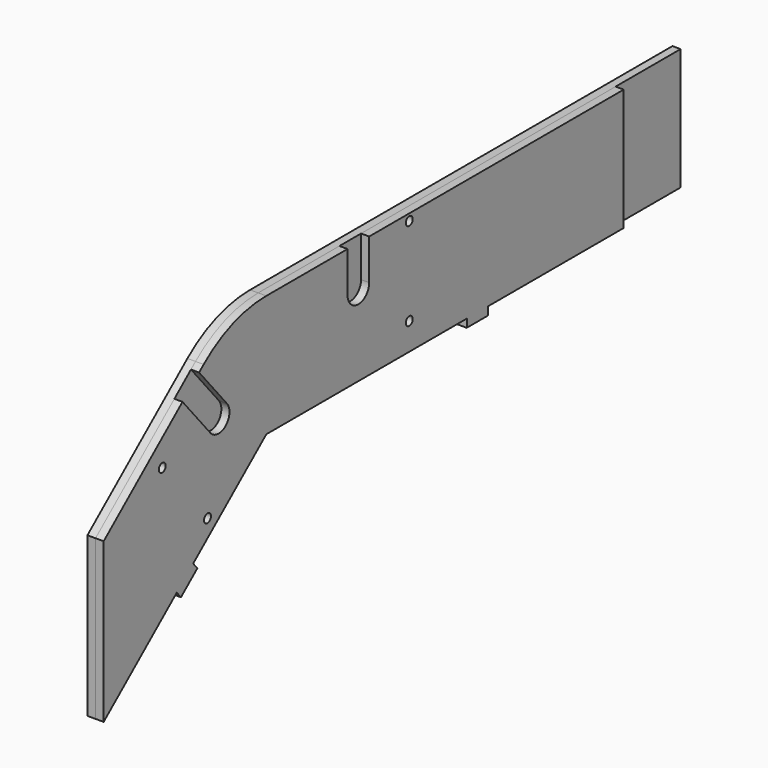
from build123d import *

# Parameters (mm, degrees)
F1_DEPTH  = 3
F2_W      = 9.9
F2_H      = 3
F3_DEPTH  = 3
F5_DEPTH  = 3
F7_W      = 30
F7_H      = 45
F8_DEPTH  = 3
F10_D     = 3.2
F10_DEPTH = 4
F10_TIP   = 0.9613769904
F12_DEPTH = 3
F14_D     = 3.2
F14_DEPTH = 4
F14_TIP   = 0.9613769904
F15_DEPTH = 3


with BuildPart() as f1:
    # F0 (on Right) → F1 (new body)
    with BuildSketch(Plane.YZ):
        with BuildLine():
            Line((-172.5723554257, -62.9931857493), (-97.5, 0))
            Line((-97.5, 0), (97.5, 0))
            Line((97.5, 0), (97.5, 45))
            Line((97.5, 45), (-97.5, 45))
            ThreePointArc((-97.5, 45), (-112.8909064497, 42.2861679354), (-126.4254424359, 34.4719999404))
            Line((-126.4254424359, 34.4719999404), (-201.4977978616, -28.5211858089))
            Line((-201.4977978616, -28.5211858089), (-172.5723554257, -62.9931857493))
        make_face()
    extrude(amount=F1_DEPTH)

    # F2 (on face) → F3 (join, through all)
    with BuildSketch(Plane.YZ.offset(3)):
        with Locations((0, -1.5)):
            Rectangle(F2_W, F2_H)
        Polygon((-129.3158948903, -30.612927536), (-131.2442577194, -28.3147942067), (-138.8280977063, -34.6783915426), (-136.8997348772, -36.9765248719), align=None)
    extrude(amount=-F3_DEPTH)

    # F4 (on face) → F5 (cut, through all)
    with BuildSketch(Plane.YZ.offset(3)):
        Polygon((-201.4977978616, -28.5211858089), (-172.5723554257, -62.9931857493), (-172.5723554257, -4.2498577293), align=None)
    extrude(amount=-F5_DEPTH, mode=Mode.SUBTRACT)


with BuildPart() as f6_1:
    # F6: instance of F1
    add(f1.part.mirror(Plane.YZ))


with BuildPart() as f1_1:
    add(f1.part)

    # F7 (on face) → F8 (cut, through all)
    with BuildSketch(Plane.YZ.offset(3)):
        with Locations((82.5, 22.5)):
            Rectangle(F7_W, F7_H)
    extrude(amount=-F8_DEPTH, mode=Mode.SUBTRACT)

    # F10
    with Locations(Plane.YZ.offset(3)):
        with Locations((-124.6455621877, -16.2507947732), (-145.5361595026, 8.6456496282)):
            Hole(F10_D / 2, depth=F10_DEPTH)
            with Locations((0, 0, -(F10_DEPTH + F10_TIP / 2))):  # 118° drill point
                Cone(0, F10_D / 2, F10_TIP, mode=Mode.SUBTRACT)

    # F11 (on face) → F12 (cut, through all)
    with BuildSketch(Plane.YZ.offset(3)):
        with BuildLine():
            Line((-128.5247999463, 32.7104298276), (-136.1852443775, 26.2825537308))
            Line((-136.1852443775, 26.2825537308), (-123.3294921838, 10.9616648684))
            ThreePointArc((-123.3294921838, 10.9616648684), (-116.2853319197, 10.3453807012), (-115.6690477526, 17.3895409653))
            Line((-115.6690477526, 17.3895409653), (-128.5247999463, 32.7104298276))
        make_face()
    extrude(amount=-F12_DEPTH, mode=Mode.SUBTRACT)

    # F14
    with Locations(Plane.YZ.offset(3)):
        with Locations((-31.5, 42.5), (-31.5, 10)):
            Hole(F14_D / 2, depth=F14_DEPTH)
            with Locations((0, 0, -(F14_DEPTH + F14_TIP / 2))):  # 118° drill point
                Cone(0, F14_D / 2, F14_TIP, mode=Mode.SUBTRACT)

    # F13 (on face) → F15 (cut, through all)
    with BuildSketch(Plane.YZ.offset(3)):
        with BuildLine():
            Line((-50, 45), (-60, 45))
            Line((-60, 45), (-60, 30))
            ThreePointArc((-60, 30), (-55, 25), (-50, 30))
            Line((-50, 30), (-50, 45))
        make_face()
    extrude(amount=-F15_DEPTH, mode=Mode.SUBTRACT)


solid = Compound([f6_1.part, f1_1.part])
